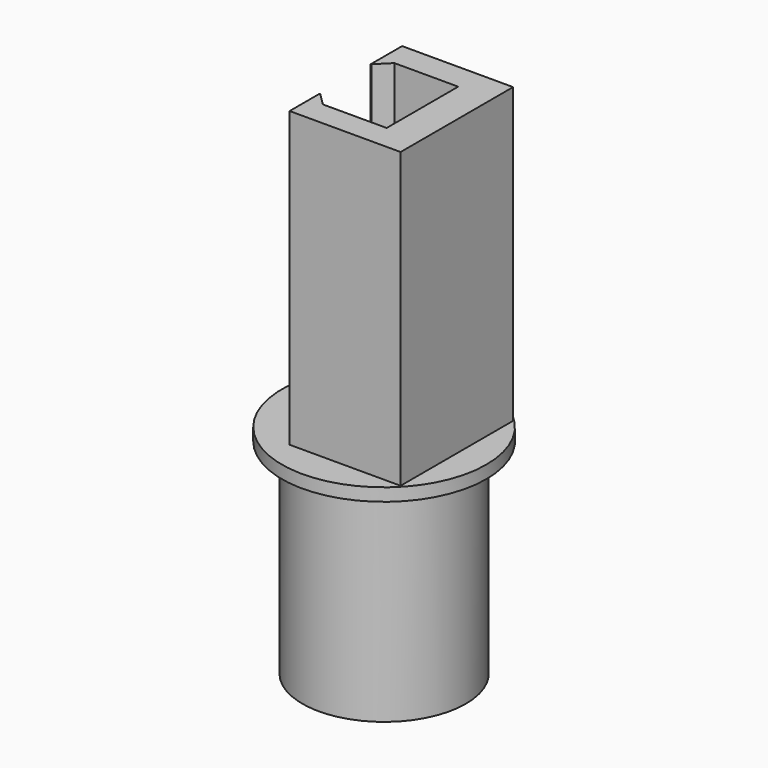
from build123d import *

# Parameters (mm, degrees)
F0_R          = 20.32
F0_R_2        = 17.145
F2_DEPTH      = 50.8
F1_R          = 25.4
F1_R_2        = 17.145
F3_DEPTH      = 3.175
F4_W          = 27.5823939592
F4_H          = 34.9517390132
F5_DEPTH      = 76.2
F5_DEPTH_BACK = 50.8
F6_R          = 34.0814213396
F6_R_2        = 20.32
F7_DEPTH      = 76.2
F8_W          = 9.0154311216
F8_H          = 15.875
F9_DEPTH      = 76.2
F9_DEPTH_BACK = 76.2


with BuildPart() as f2:
    # F0 (on Top) → F2 (new body)
    with BuildSketch(Plane.XY):
        Circle(F0_R)
        Circle(F0_R_2, mode=Mode.SUBTRACT)
    extrude(amount=-F2_DEPTH)

    # F1 (on Top) → F3 (join)
    with BuildSketch(Plane.XY):
        Circle(F1_R)
        Circle(F1_R_2, mode=Mode.SUBTRACT)
    extrude(amount=F3_DEPTH)

    # F4 (on Top) → F5 (join, two sides)
    with BuildSketch(Plane.XY) as f5_sk:
        with Locations((4.1584149003, 0.1579150558)):
            Rectangle(F4_W, F4_H)
        Polygon((9.525, 11.1125), (9.525, -11.1125), (-6.35, -11.1125), (-9.525, -11.1125), (-9.525, -7.9375), (-9.525, 7.9375), (-9.525, 11.1125), (-6.35, 11.1125), align=None, mode=Mode.SUBTRACT)
        Polygon((-9.525, -11.1125), (-6.35, -11.1125), (-9.525, -7.9375), align=None)
        Polygon((-9.525, 7.9375), (-6.35, 11.1125), (-9.525, 11.1125), align=None)
    extrude(amount=F5_DEPTH)
    extrude(f5_sk.sketch, amount=-F5_DEPTH_BACK)

    # F6 (on Top) → F7 (cut)
    with BuildSketch(Plane.XY):
        Circle(F6_R)
        Circle(F6_R_2, mode=Mode.SUBTRACT)
    extrude(amount=-F7_DEPTH, mode=Mode.SUBTRACT)

    # F8 (on Top) → F9 (cut, two sides)
    with BuildSketch(Plane.XY) as f9_sk:
        with Locations((-7.6543868054, -0.1444227528)):
            Rectangle(F8_W, F8_H)
    extrude(amount=-F9_DEPTH, mode=Mode.SUBTRACT)
    extrude(f9_sk.sketch, amount=F9_DEPTH_BACK, mode=Mode.SUBTRACT)


solid = f2.part
